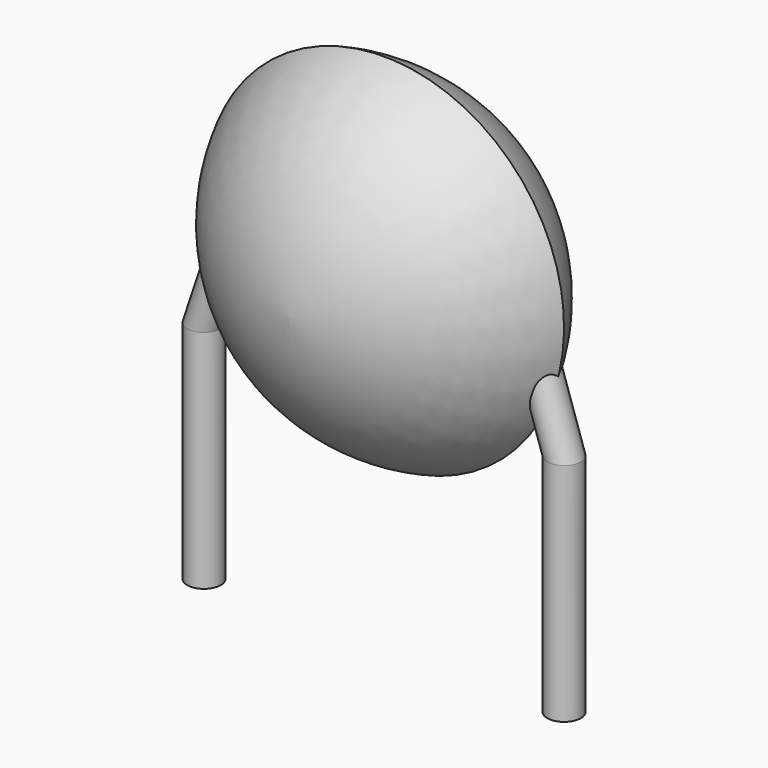
from build123d import *

# Parameters (mm, degrees)
SKETCH001_R       = 0.35
PAD001_DEPTH      = 1.5
PAD001_DEPTH_BACK = 3.2
SKETCH002_R       = 0.35
SKETCH003_R       = 0.35
SKETCH004_R       = 0.35
SKETCH005_R       = 0.35


with BuildPart() as pad001:
    # Sketch001 → Pad001 (new body, two sides)
    with BuildSketch(Plane.XY) as pad001_sk:
        Circle(SKETCH001_R)
        with Locations((7.5, 0)):
            Circle(SKETCH001_R)
    extrude(amount=PAD001_DEPTH)
    extrude(pad001_sk.sketch, amount=-PAD001_DEPTH_BACK)


with BuildPart() as revolution:
    # Sketch → Revolution (revolve)
    with BuildSketch(Plane.YZ.offset(3.75)):
        with BuildLine():
            Line((-2.5, 3.85), (2.5, 3.85))
            ThreePointArc((0, 0.1), (1.782098, 1.620268), (2.5, 3.85))
            ThreePointArc((-2.5, 3.85), (-1.782098, 1.620268), (0, 0.1))
        make_face()
    revolve(axis=Axis((3.75, -3.32079, 3.85), (0, 1, 0)))


with BuildPart() as loft_body:
    # Sketch002 → Loft section 0
    with BuildSketch(Plane.XY.offset(3.75)):
        with Locations((0.75, 0)):
            Circle(SKETCH002_R)
    # Sketch003 → Loft section 1
    with BuildSketch(Plane.XY.offset(1.5)):
        Circle(SKETCH003_R)
    loft()


with BuildPart() as loft001:
    # Sketch004 → Loft001 section 0
    with BuildSketch(Plane.XY.offset(1.5)):
        with Locations((7.5, 0)):
            Circle(SKETCH004_R)
    # Sketch005 → Loft001 section 1
    with BuildSketch(Plane.XY.offset(3.75)):
        with Locations((6.75, 0)):
            Circle(SKETCH005_R)
    loft()


solid = Compound([pad001.part, revolution.part, loft_body.part, loft001.part])
